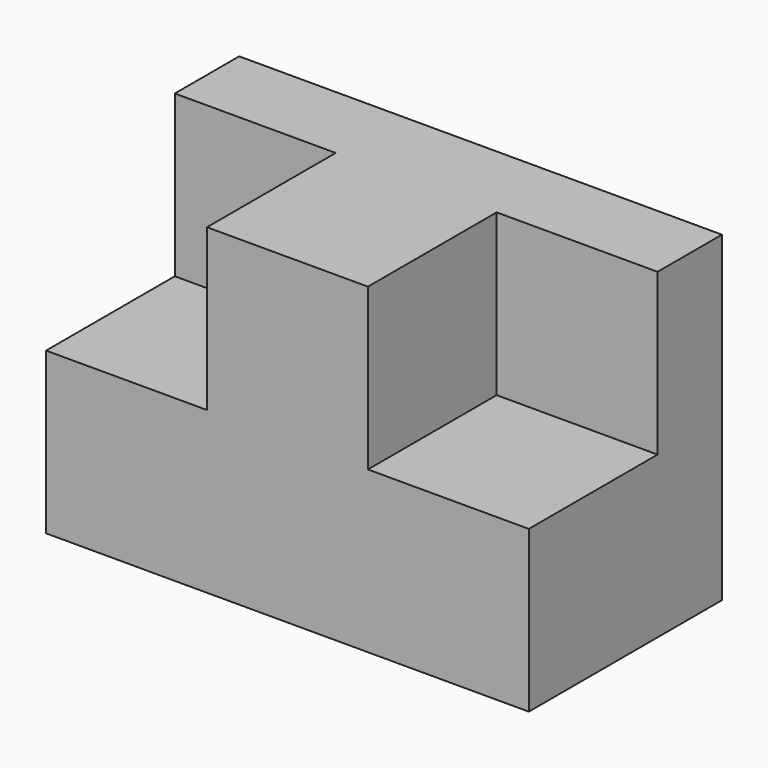
from build123d import *

# Parameters (mm, degrees)
F0_W     = 152.4
F0_H     = 76.2
F1_DEPTH = 101.6
F2_W     = 50.8
F2_H     = 50.8
F3_DEPTH = 50.8


with BuildPart() as f1:
    # F0 (on Top) → F1 (new body)
    with BuildSketch(Plane.XY):
        with Locations((19.0702620894, 21.9347542571)):
            Rectangle(F0_W, F0_H)
    extrude(amount=F1_DEPTH)

    # F2 (on face) → F3 (cut)
    with BuildSketch(Plane.XZ.offset(16.1652457429)):
        with Locations((-31.7297379106, 76.2)):
            Rectangle(F2_W, F2_H)
        with Locations((69.8702620894, 76.2)):
            Rectangle(F2_W, F2_H)
    extrude(amount=-F3_DEPTH, mode=Mode.SUBTRACT)


solid = f1.part
